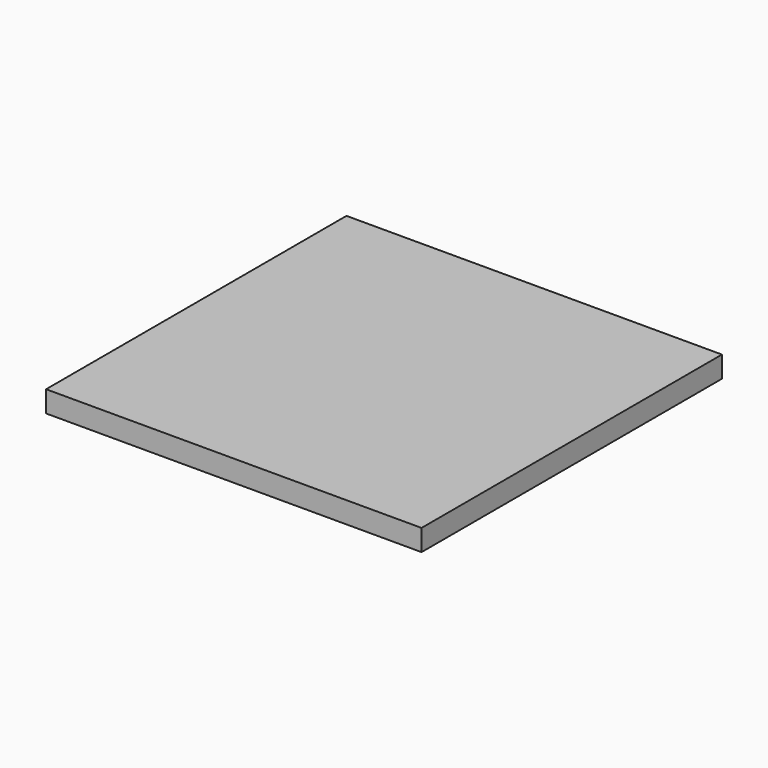
from build123d import *

# Parameters (mm, degrees)
F0_W     = 105.6
F0_H     = 105.6
F0_W_2   = 101.6
F0_H_2   = 101.6
F1_DEPTH = 3
F2_W     = 105.6
F2_H     = 105.6
F3_DEPTH = 3


with BuildPart() as f1:
    # F0 (on Top) → F1 (new body)
    with BuildSketch(Plane.XY):
        Rectangle(F0_W, F0_H)
        Rectangle(F0_W_2, F0_H_2, mode=Mode.SUBTRACT)
    extrude(amount=-F1_DEPTH)

    # F2 (on Top) → F3 (join)
    with BuildSketch(Plane.XY):
        Rectangle(F2_W, F2_H)
    extrude(amount=F3_DEPTH)


solid = f1.part
